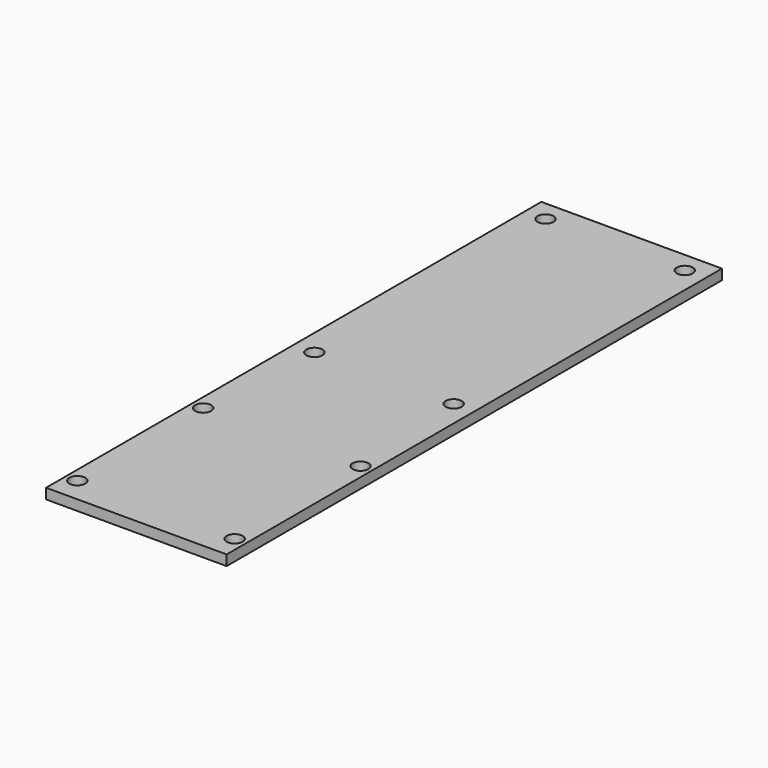
from build123d import *

# Parameters (mm, degrees)
SKETCH_W  = 35
SKETCH_H  = 120
SKETCH_R  = 1.55
PAD_DEPTH = 2


with BuildPart() as part:
    # Sketch → Pad (new body)
    with BuildSketch(Plane.XY):
        with Locations((0, 40)):
            Rectangle(SKETCH_W, SKETCH_H)
        with Locations((-15.25, 15.25)):
            Circle(SKETCH_R, mode=Mode.SUBTRACT)
        with Locations((15.25, 15.25)):
            Circle(SKETCH_R, mode=Mode.SUBTRACT)
        with Locations((-15.25, -15.25)):
            Circle(SKETCH_R, mode=Mode.SUBTRACT)
        with Locations((15.25, -15.25)):
            Circle(SKETCH_R, mode=Mode.SUBTRACT)
        with Locations((-13.5, 96)):
            Circle(SKETCH_R, mode=Mode.SUBTRACT)
        with Locations((13.5, 96)):
            Circle(SKETCH_R, mode=Mode.SUBTRACT)
        with Locations((-13.5, 40)):
            Circle(SKETCH_R, mode=Mode.SUBTRACT)
        with Locations((13.5, 40)):
            Circle(SKETCH_R, mode=Mode.SUBTRACT)
    extrude(amount=PAD_DEPTH)


solid = part.part
